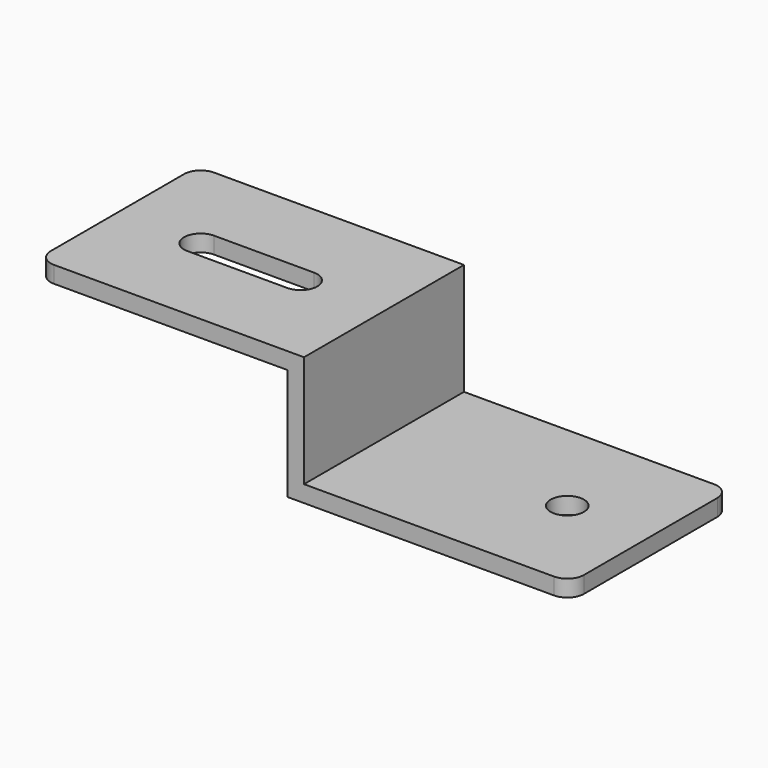
from build123d import *

# Parameters (mm, degrees)
F1_DEPTH = 60
F2_R     = 5
F3_DEPTH = 50
F4_R     = 5


with BuildPart() as f1:
    # F0 (on Front) → F1 (new body)
    with BuildSketch(Plane.XZ):
        Polygon((0, -5), (0, 0), (-80, 0), (-80, 33.534), (-160, 33.534), (-160, 28.534), (-85, 28.534), (-85, -5), align=None)
    extrude(amount=F1_DEPTH)

    # F2 (on face) → F3 (cut, symmetric)
    with BuildSketch(Plane.XY):
        with Locations((-25, -30)):
            Circle(F2_R)
        with BuildLine():
            Line((-105, -25), (-135, -25))
            ThreePointArc((-135, -25), (-140, -30), (-135, -35))
            Line((-135, -35), (-105, -35))
            ThreePointArc((-105, -35), (-100, -30), (-105, -25))
        make_face()
    extrude(amount=F3_DEPTH, both=True, mode=Mode.SUBTRACT)

    # F4
    f4_edges = [f1.edges().sort_by_distance(p)[0] for p in [
        (-160, -60, 31.034),
        (-160, 0, 31.034),
        (0, -60, -2.5),
        (0, 0, -2.5),
    ]]
    fillet(f4_edges, radius=F4_R)


solid = f1.part
